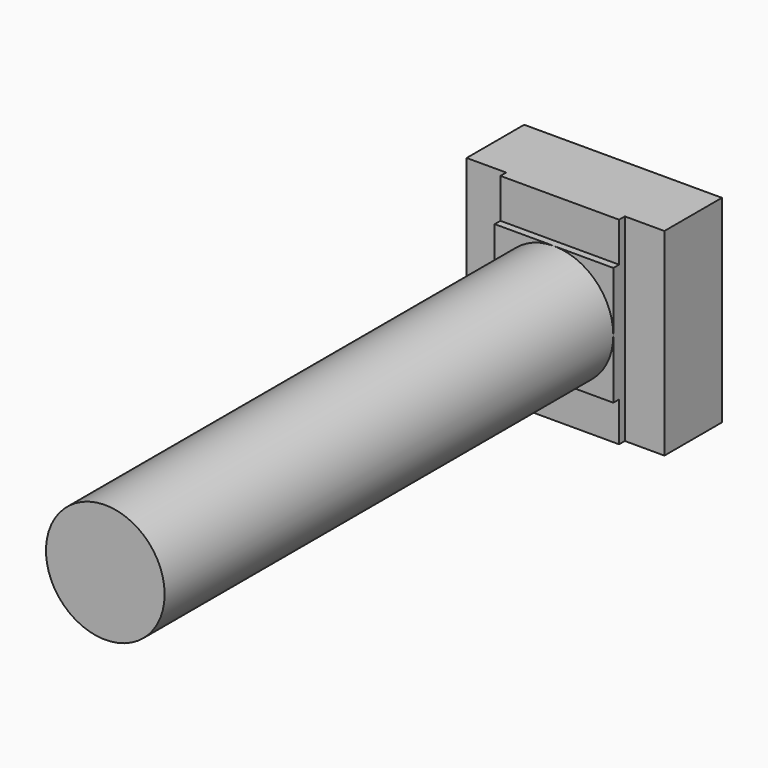
from build123d import *

# Parameters (mm, degrees)
CYLINDER_R     = 1.65
CYLINDER_DEPTH = 19
BOX016_W       = 5.5
BOX016_H       = 0.2
BOX016_DEPTH   = 1.1
BOX018_W       = 1.1
BOX018_H       = 0.4
BOX018_DEPTH   = 5.5
BOX014_W       = 1.1
BOX014_H       = 0.4
BOX014_DEPTH   = 5.5
BOX015_W       = 5.5
BOX015_H       = 0.2
BOX015_DEPTH   = 1.1
BOX017_W       = 5.5
BOX017_H       = 2.4
BOX017_DEPTH   = 5.5


with BuildPart() as cylinder:
    # Cylinder → Cylinder (new body)
    with BuildSketch(Plane.XZ.offset(-1)):
        Circle(CYLINDER_R)
    extrude(amount=CYLINDER_DEPTH)


with BuildPart() as cube016:
    # Box016 → Box016 (new body)
    with BuildSketch(Plane(origin=(-2.75, -2.4, 1.65), x_dir=(1, 0, 0), z_dir=(0, 0, 1))):
        with Locations((2.75, 0.1)):
            Rectangle(BOX016_W, BOX016_H)
    extrude(amount=BOX016_DEPTH)


with BuildPart() as cube018:
    # Box018 → Box018 (new body)
    with BuildSketch(Plane(origin=(1.65, -2.4, -2.75), x_dir=(1, 0, 0), z_dir=(0, 0, 1))):
        with Locations((0.55, 0.2)):
            Rectangle(BOX018_W, BOX018_H)
    extrude(amount=BOX018_DEPTH)


with BuildPart() as cube014:
    # Box014 → Box014 (new body)
    with BuildSketch(Plane(origin=(-2.75, -2.4, -2.75), x_dir=(1, 0, 0), z_dir=(0, 0, 1))):
        with Locations((0.55, 0.2)):
            Rectangle(BOX014_W, BOX014_H)
    extrude(amount=BOX014_DEPTH)


with BuildPart() as fusion001004:
    # Box015 → Box015 (new body)
    with BuildSketch(Plane(origin=(-2.75, -2.4, -2.75), x_dir=(1, 0, 0), z_dir=(0, 0, 1))):
        with Locations((2.75, 0.1)):
            Rectangle(BOX015_W, BOX015_H)
    extrude(amount=BOX015_DEPTH)

    # Fusion001004: union Cube016, Cube018, Cube014
    add(cube016.part)
    add(cube018.part)
    add(cube014.part)


with BuildPart() as bolt:
    # Box017 → Box017 (new body)
    with BuildSketch(Plane(origin=(-2.75, -2.4, -2.75), x_dir=(1, 0, 0), z_dir=(0, 0, 1))):
        with Locations((2.75, 1.2)):
            Rectangle(BOX017_W, BOX017_H)
    extrude(amount=BOX017_DEPTH)

    # Cut009: cut Fusion001004
    add(fusion001004.part, mode=Mode.SUBTRACT)

    # Fusion001005: union Cylinder
    add(cylinder.part)


with BuildPart() as bolt_1:
    # Fusion001005 placement: moved
    add(bolt.part.moved(Location((0, 5, 0))))


solid = bolt_1.part
